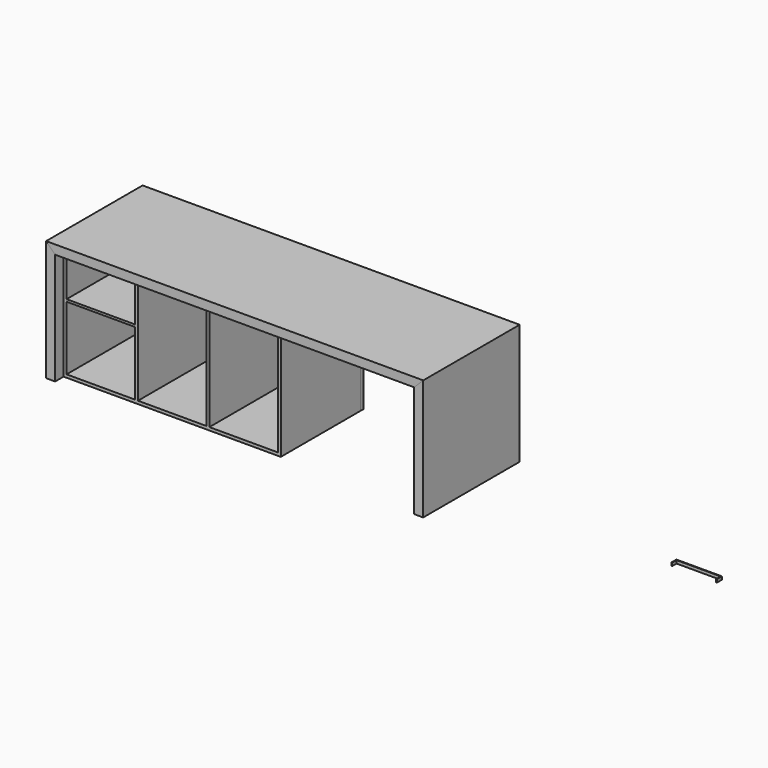
from build123d import *

# Parameters (mm, degrees)
F1_DEPTH  = 400
F3_DEPTH  = 399.5
F5_DEPTH  = 400
F6_W      = 1440
F6_H      = 740
F7_DEPTH  = 330
F8_W      = 453.3333333333
F8_H      = 700
F9_DEPTH  = 730.001
F10_W     = 453.3333333333
F10_H     = 15
F11_DEPTH = 660
F12_W     = 465
F12_H     = 740
F13_DEPTH = 25
F15_W     = 5
F15_H     = 20
F18_DEPTH = 465


with BuildPart() as f1:
    # F0 (on Front) → F1 (new body, symmetric)
    with BuildSketch(Plane.XZ):
        Polygon((0, 740), (0, 0), (60, 0), (60, 800), align=None)
    extrude(amount=F1_DEPTH, both=True)


with BuildPart() as f3:
    # F2 (on Front) → F3 (new body, symmetric)
    with BuildSketch(Plane.XZ):
        Polygon((0, 740), (60, 800), (-2440, 800), (-2380, 740), align=None)
    extrude(amount=F3_DEPTH, both=True)


with BuildPart() as f5:
    # F4 (on Front) → F5 (new body, symmetric)
    with BuildSketch(Plane.XZ):
        Polygon((-2380, 740), (-2440, 800), (-2440, 0), (-2380, 0), align=None)
    extrude(amount=F5_DEPTH, both=True)


with BuildPart() as f7:
    # F6 (on Front) → F7 (new body, symmetric)
    with BuildSketch(Plane.XZ):
        with Locations((-1660, 370)):
            Rectangle(F6_W, F6_H)
    extrude(amount=F7_DEPTH, both=True)

    # F8 (on face) → F9 (cut, through all)
    with BuildSketch(Plane(origin=(0, 330, 0), x_dir=(-1, 0, 0), z_dir=(0, 1, 0))):
        with Locations((1186.6666666667, 370)):
            Rectangle(F8_W, F8_H)
        with Locations((1660, 370)):
            Rectangle(F8_W, F8_H)
        with Locations((2133.3333333333, 370)):
            Rectangle(F8_W, F8_H)
    extrude(amount=-F9_DEPTH, mode=Mode.SUBTRACT)


with BuildPart() as f11:
    # F10 (on face) → F11 (new body, through all)
    with BuildSketch(Plane(origin=(0, 330, 0), x_dir=(-1, 0, 0), z_dir=(0, 1, 0))):
        with Locations((2133.3333333333, 451.3132941723)):
            Rectangle(F10_W, F10_H)
    extrude(amount=-F11_DEPTH)


with BuildPart() as f13:
    # F12 (on face) → F13 (new body)
    with BuildSketch(Plane(origin=(0, 330, 0), x_dir=(-1, 0, 0), z_dir=(0, 1, 0))):
        with Locations((1172.5, 370)):
            Rectangle(F12_W, F12_H)
    extrude(amount=F13_DEPTH)

    # F17 (on face) → F18 (cut, through all)
    with BuildSketch(Plane(origin=(-1405, 0, 0), x_dir=(0, -1, 0), z_dir=(-1, 0, 0))):
        Polygon((-351, 710), (-355, 710), (-355, 680), (-335, 680), (-335, 725), (-351, 725), align=None)
    extrude(amount=-F18_DEPTH, mode=Mode.SUBTRACT)


with BuildPart() as f16:
    # F16: sweep along a path in F14
    with BuildLine(Plane.XY) as f16_path:
        Line((1387.0265483856, 0), (1387.0265483856, 40))
        Line((1387.0265483856, 40), (1687.0265483856, 40))
        Line((1687.0265483856, 40), (1687.0265483856, 0))
    # F15 (on Front) → F16 (sweep)
    with BuildSketch(Plane.XZ):
        with Locations((1388.6488056183, -3.3098214678)):
            Rectangle(F15_W, F15_H)
    sweep(path=f16_path.line, transition=Transition.RIGHT)


solid = Compound([f1.part, f3.part, f5.part, f7.part, f11.part, f13.part, f16.part])
